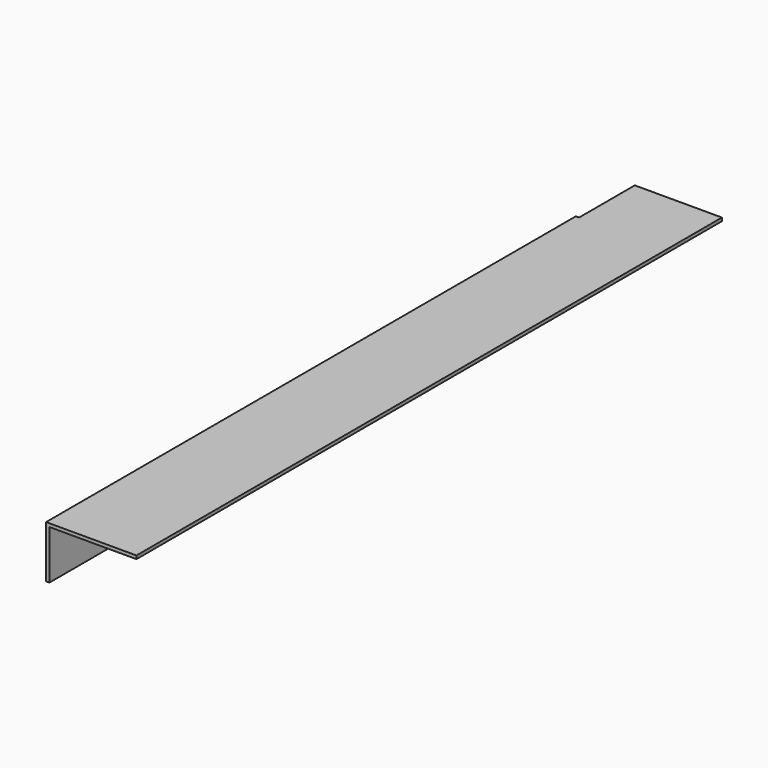
from build123d import *

# Parameters (mm, degrees)
F1_DEPTH = 4.7625
F2_W     = 965.2
F2_H     = 76.2
F3_DEPTH = 4.7625


with BuildPart() as f1:
    # F0 (on Top) → F1 (new body)
    with BuildSketch(Plane.XY):
        Polygon((63.5, -381), (63.5, 533.4), (-63.5, 533.4), (-63.5, -533.4), (63.5, -533.4), align=None)
    extrude(amount=F1_DEPTH)

    # F2 (on face) → F3 (join)
    with BuildSketch(Plane(origin=(-63.5, 0, 0), x_dir=(0, -1, 0), z_dir=(-1, 0, 0))):
        with Locations((50.8, -33.3375)):
            Rectangle(F2_W, F2_H)
    extrude(amount=F3_DEPTH)


solid = f1.part
